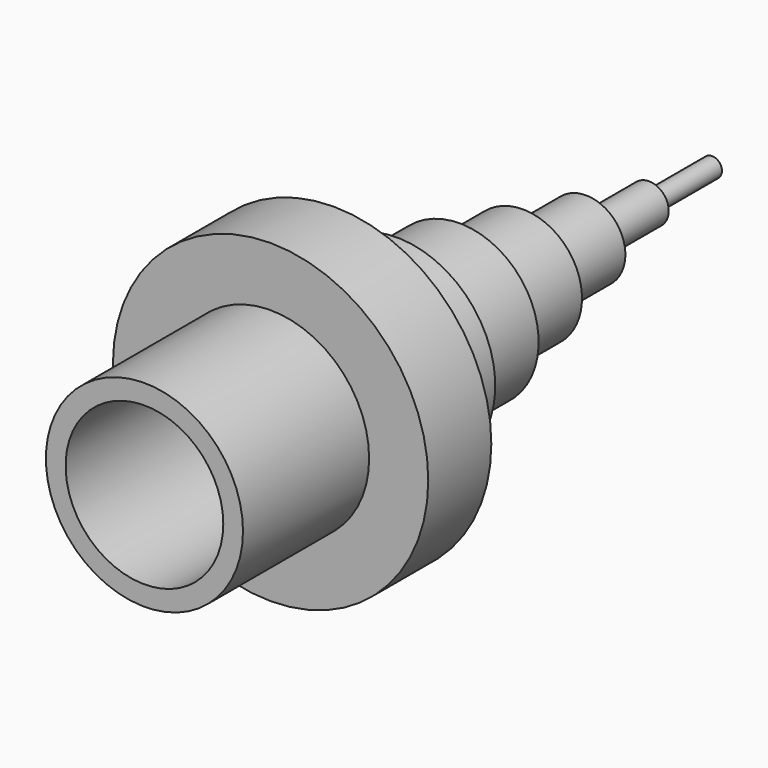
from build123d import *

# Parameters (mm, degrees)
F0_R      = 40
F1_DEPTH  = 20
F2_R      = 25
F2_R_2    = 20
F3_DEPTH  = 40
F4_R      = 25
F5_DEPTH  = 20
F6_R      = 20
F7_DEPTH  = 20
F8_R      = 15
F9_DEPTH  = 20
F10_R     = 10
F11_DEPTH = 20
F12_R     = 5
F13_DEPTH = 20
F14_R     = 2.5
F15_DEPTH = 20


with BuildPart() as f1:
    # F0 (on Front) → F1 (new body)
    with BuildSketch(Plane.XZ):
        Circle(F0_R)
    extrude(amount=F1_DEPTH)

    # F2 (on face) → F3 (join)
    with BuildSketch(Plane.XZ.offset(20)):
        Circle(F2_R)
        Circle(F2_R_2, mode=Mode.SUBTRACT)
    extrude(amount=F3_DEPTH)

    # F4 (on face) → F5 (join)
    with BuildSketch(Plane(origin=(0, 0, 0), x_dir=(-1, 0, 0), z_dir=(0, 1, 0))):
        Circle(F4_R)
    extrude(amount=F5_DEPTH)

    # F6 (on face) → F7 (join)
    with BuildSketch(Plane(origin=(0, 20, 0), x_dir=(-1, 0, 0), z_dir=(0, 1, 0))):
        Circle(F6_R)
    extrude(amount=F7_DEPTH)

    # F8 (on face) → F9 (join)
    with BuildSketch(Plane(origin=(0, 40, 0), x_dir=(-1, 0, 0), z_dir=(0, 1, 0))):
        Circle(F8_R)
    extrude(amount=F9_DEPTH)

    # F10 (on face) → F11 (join)
    with BuildSketch(Plane(origin=(0, 60, 0), x_dir=(-1, 0, 0), z_dir=(0, 1, 0))):
        Circle(F10_R)
    extrude(amount=F11_DEPTH)

    # F12 (on face) → F13 (join)
    with BuildSketch(Plane(origin=(0, 80, 0), x_dir=(-1, 0, 0), z_dir=(0, 1, 0))):
        Circle(F12_R)
    extrude(amount=F13_DEPTH)

    # F14 (on face) → F15 (join)
    with BuildSketch(Plane(origin=(0, 100, 0), x_dir=(-1, 0, 0), z_dir=(0, 1, 0))):
        Circle(F14_R)
    extrude(amount=F15_DEPTH)


solid = f1.part
